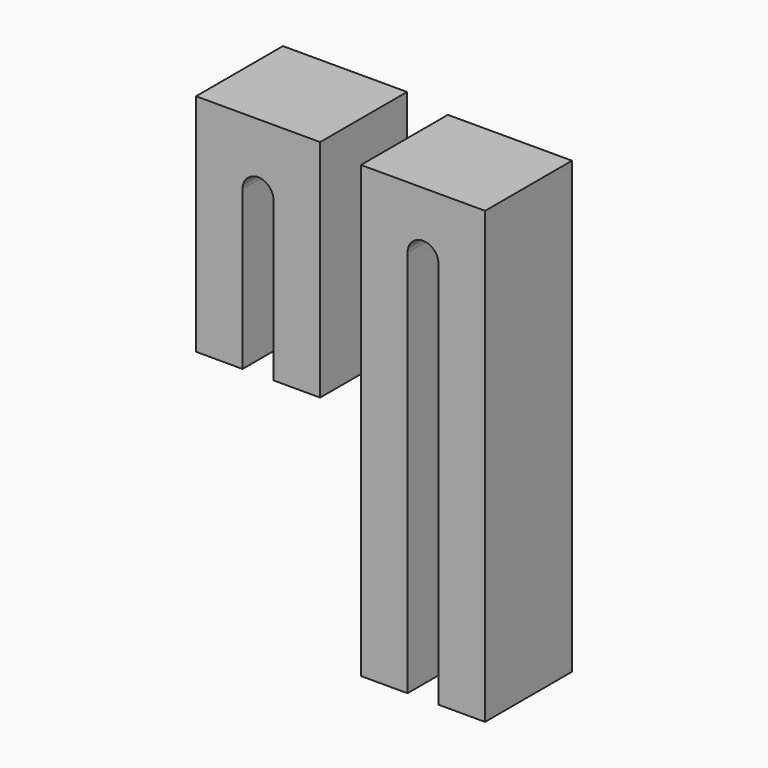
from build123d import *

# Parameters (mm, degrees)
F1_DEPTH = 70
F3_DEPTH = 70


with BuildPart() as f1:
    # F0 (on Front) → F1 (new body)
    with BuildSketch(Plane.XZ):
        with BuildLine():
            Line((-79.837885, 60.60828), (-79.837885, -84.39172))
            Line((-79.837885, -84.39172), (-49.837885, -84.39172))
            Line((-49.837885, -84.39172), (-49.837885, 17.705042))
            ThreePointArc((-49.837885, 17.705042), (-46.908953, 24.77611), (-39.837885, 27.705042))
            ThreePointArc((-39.837885, 27.705042), (-32.766817, 24.77611), (-29.837885, 17.705042))
            Line((-29.837885, 17.705042), (-29.837885, -84.39172))
            Line((-29.837885, -84.39172), (0.162115, -84.39172))
            Line((0.162115, -84.39172), (0.162115, 60.60828))
            Line((0.162115, 60.60828), (-79.837885, 60.60828))
        make_face()
    extrude(amount=F1_DEPTH)


with BuildPart() as f3:
    # F2 (on Front) → F3 (new body)
    with BuildSketch(Plane.XZ):
        with BuildLine():
            Line((26.468424, 56.180466), (26.468424, -233.819534))
            Line((26.468424, -233.819534), (56.468424, -233.819534))
            Line((56.468424, -233.819534), (56.468424, 16.180466))
            ThreePointArc((56.468424, 16.180466), (59.397356, 23.251534), (66.468424, 26.180466))
            ThreePointArc((66.468424, 26.180466), (73.539492, 23.251534), (76.468424, 16.180466))
            Line((76.468424, 16.180466), (76.468424, -233.819534))
            Line((76.468424, -233.819534), (106.468424, -233.819534))
            Line((106.468424, -233.819534), (106.468424, 56.180466))
            Line((106.468424, 56.180466), (26.468424, 56.180466))
        make_face()
    extrude(amount=F3_DEPTH)


solid = Compound([f1.part, f3.part])
